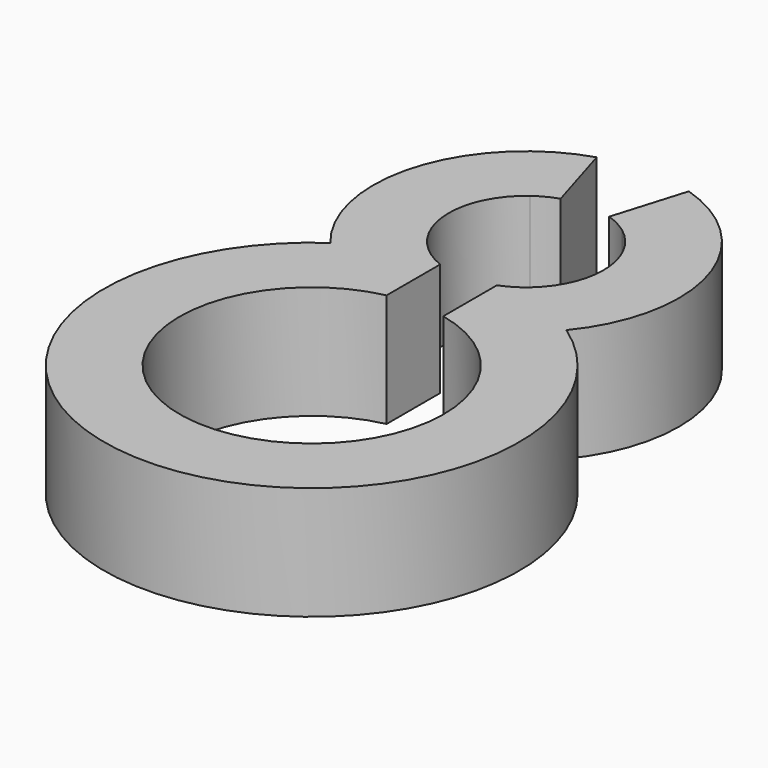
from build123d import *

# Parameters (mm, degrees)
F1_DEPTH = 3


with BuildPart() as f1:
    # F0 (on Top) → F1 (new body)
    with BuildSketch(Plane.XY):
        with BuildLine():
            ThreePointArc((-0.75, -1.907878), (-2.032301, -0.268798), (-1.220216, 1.647292))
            ThreePointArc((-1.220216, 1.647292), (-0.943792, 1.819823), (-0.643522, 1.946376))
            Line((-0.643522, 1.946376), (-1.220216, 3.861809))
            ThreePointArc((-1.220216, 3.861809), (-3.883333, 1.14988), (-3.126145, -2.574824))
            ThreePointArc((-3.126145, -2.574824), (0, -12.6), (3.126145, -2.574824))
            ThreePointArc((3.126145, -2.574824), (3.883333, 1.14988), (1.220216, 3.861809))
            Line((1.220216, 3.861809), (0.643522, 1.946376))
            ThreePointArc((0.643522, 1.946376), (0.943792, 1.819823), (1.220216, 1.647292))
            ThreePointArc((1.220216, 1.647292), (2.032301, -0.268798), (0.75, -1.907878))
            Line((0.75, -1.907878), (0.75, -3.197449))
            Line((0.75, -3.197449), (0.75, -3.681301))
            ThreePointArc((0.75, -3.681301), (0, -10.6), (-0.75, -3.681301))
            Line((-0.75, -3.681301), (-0.75, -3.197449))
            Line((-0.75, -3.197449), (-0.75, -1.907878))
        make_face()
    extrude(amount=F1_DEPTH)


solid = f1.part
